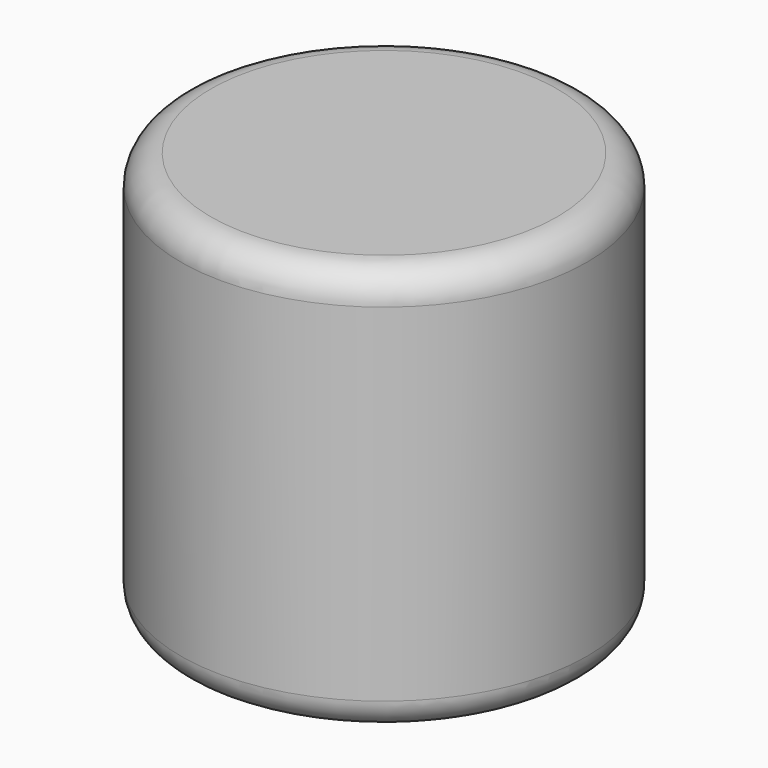
from build123d import *

# Parameters (mm, degrees)
F0_R     = 34.385089
F1_DEPTH = 68.834
F2_R     = 5.08
F3_R     = 5.08


with BuildPart() as f1:
    # F0 (on Top) → F1 (new body)
    with BuildSketch(Plane.XY):
        Circle(F0_R)
    extrude(amount=F1_DEPTH)

    # F2
    f2_edges = [f1.edges().sort_by_distance(p)[0] for p in [
        (-34.385089, 0, 68.834),
    ]]
    fillet(f2_edges, radius=F2_R)

    # F3
    f3_edges = [f1.edges().sort_by_distance(p)[0] for p in [
        (34.385089, 0, 31.877),
        (-34.385089, 0, 63.754),
        (-34.385089, 0, 0),
    ]]
    fillet(f3_edges, radius=F3_R)


solid = f1.part
